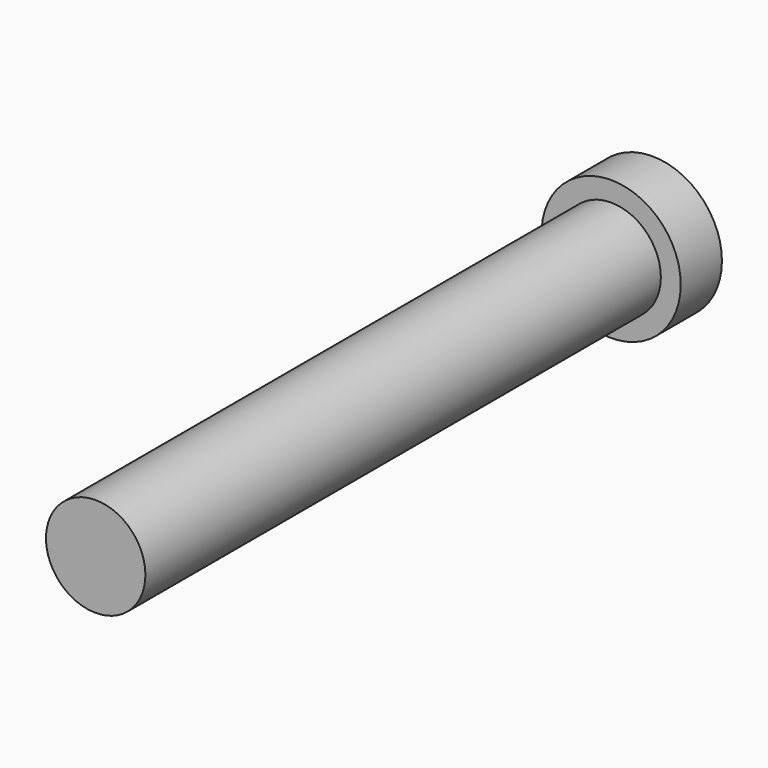
from build123d import *

# Parameters (mm, degrees)
F0_R     = 3.175
F1_DEPTH = 41.15384
F2_R     = 4.445
F3_DEPTH = 3.28929


with BuildPart() as f1:
    # F0 (on Front) → F1 (new body)
    with BuildSketch(Plane.XZ):
        Circle(F0_R)
    extrude(amount=F1_DEPTH)

    # F2 (on Front) → F3 (join)
    with BuildSketch(Plane.XZ):
        Circle(F2_R)
    extrude(amount=-F3_DEPTH)


solid = f1.part
